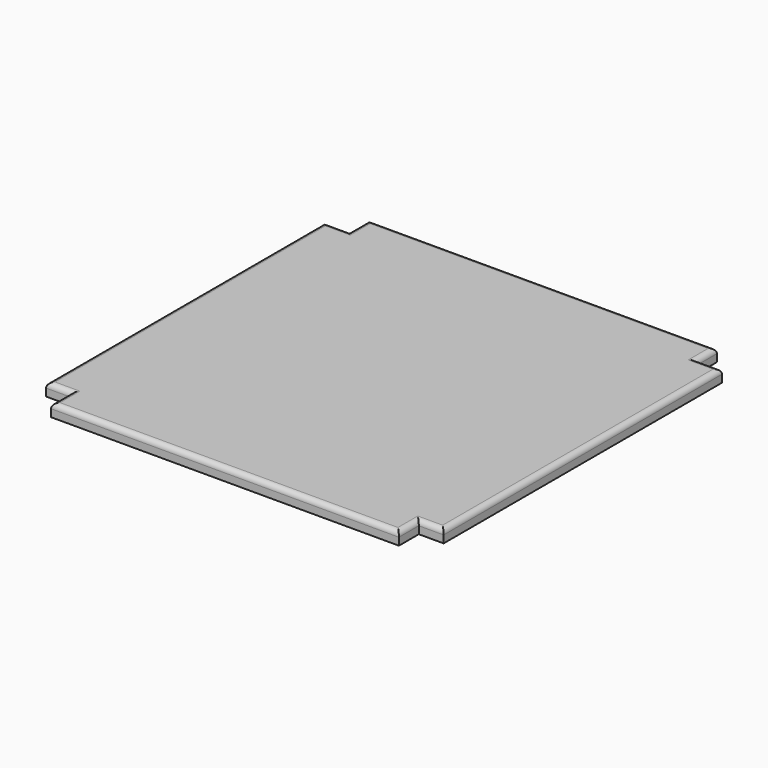
from build123d import *

# Parameters (mm, degrees)
F1_DEPTH = 12.7
F2_R     = 5.08


with BuildPart() as f1:
    # F0 (on Top) → F1 (new body)
    with BuildSketch(Plane.XY):
        Polygon((177.8, 135.466667), (-177.8, 135.466667), (-177.8, 110.066667), (-203.2, 110.066667), (-203.2, -245.533333), (-177.8, -245.533333), (-177.8, -270.933333), (177.8, -270.933333), (177.8, -245.533333), (203.2, -245.533333), (203.2, 110.066667), (177.8, 110.066667), align=None)
    extrude(amount=F1_DEPTH)

    # F2
    f2_edges = [f1.edges().sort_by_distance(p)[0] for p in [
        (-203.2, -67.733333, 12.7),
        (0, -270.933333, 12.7),
        (203.2, -67.733333, 12.7),
        (0, 135.466667, 12.7),
        (-190.5, 110.066667, 12.7),
        (-177.8, 122.766667, 12.7),
        (177.8, 122.766667, 12.7),
        (190.5, 110.066667, 12.7),
        (-190.5, -245.533333, 12.7),
        (-177.8, -258.233333, 12.7),
        (177.8, -258.233333, 12.7),
        (190.5, -245.533333, 12.7),
    ]]
    fillet(f2_edges, radius=F2_R)


solid = f1.part
